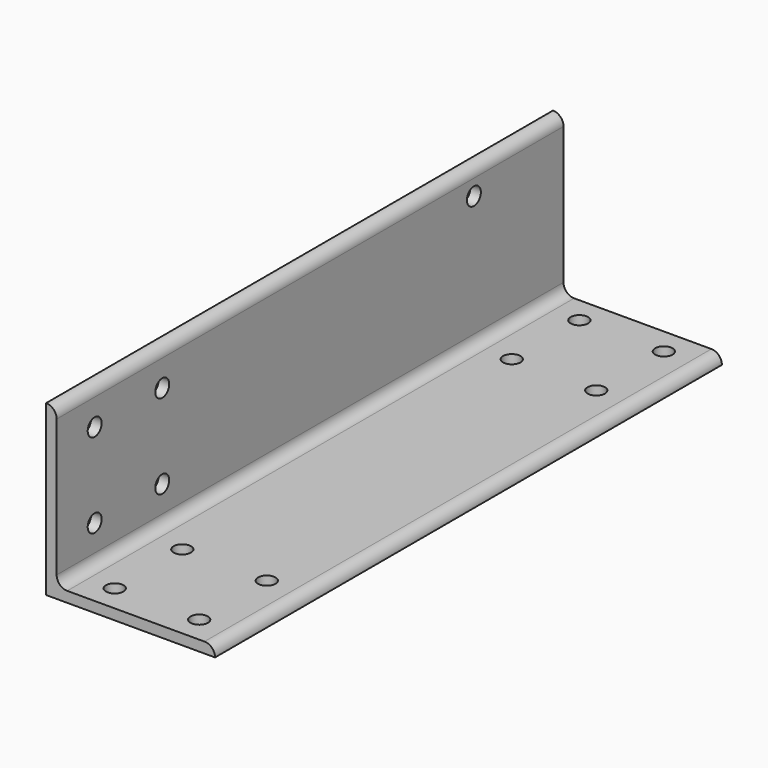
from build123d import *

# Parameters (mm, degrees)
F1_DEPTH = 190.5
F2_R     = 2.6162
F3_DEPTH = 3.176
F4_R     = 2.6162
F5_DEPTH = 3.176


with BuildPart() as f1:
    # F0 (on Front) → F1 (new body)
    with BuildSketch(Plane.XZ):
        with BuildLine():
            Line((-50.8, 0), (0, 0))
            ThreePointArc((0, 0), (-0.929936, 2.245064), (-3.175, 3.175))
            Line((-3.175, 3.175), (-44.45, 3.175))
            ThreePointArc((-44.45, 3.175), (-46.695064, 4.104936), (-47.625, 6.35))
            Line((-47.625, 6.35), (-47.625, 47.625))
            ThreePointArc((-47.625, 47.625), (-48.554936, 49.870064), (-50.8, 50.8))
            Line((-50.8, 50.8), (-50.8, 0))
        make_face()
    extrude(amount=F1_DEPTH)

    # F2 (on face) → F3 (cut, through all)
    with BuildSketch(Plane.YZ.offset(-47.625)):
        with Locations((-176.2125, 14.2875)):
            Circle(F2_R)
        with Locations((-176.2125, 39.6875)):
            Circle(F2_R)
        with Locations((-150.8125, 39.6875)):
            Circle(F2_R)
        with Locations((-150.8125, 14.2875)):
            Circle(F2_R)
        with Locations((-33.6804, 42.8625)):
            Circle(F2_R)
    extrude(amount=-F3_DEPTH, mode=Mode.SUBTRACT)

    # F4 (on face) → F5 (cut, through all)
    with BuildSketch(Plane.XY.offset(3.175)):
        with Locations((-36.5125, -182.5625)):
            Circle(F4_R)
        with Locations((-36.5125, -7.9375)):
            Circle(F4_R)
        with Locations((-11.1125, -7.9375)):
            Circle(F4_R)
        with Locations((-36.5125, -33.3375)):
            Circle(F4_R)
        with Locations((-11.1125, -33.3375)):
            Circle(F4_R)
        with Locations((-36.5125, -157.1625)):
            Circle(F4_R)
        with Locations((-11.1125, -182.5625)):
            Circle(F4_R)
        with Locations((-11.1125, -157.1625)):
            Circle(F4_R)
    extrude(amount=-F5_DEPTH, mode=Mode.SUBTRACT)


solid = f1.part
